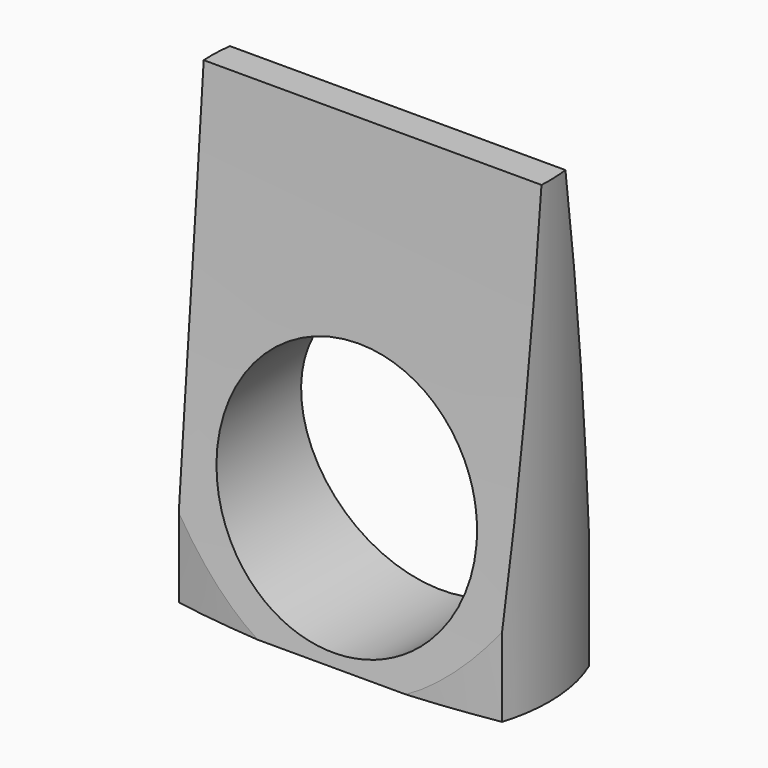
from build123d import *

# Parameters (mm, degrees)
F2_DEPTH      = 9.7
F2_DEPTH_BACK = 21.7
F0_R          = 8.875
F3_DEPTH      = 25
F3_DEPTH_BACK = 25
F5_DEPTH      = 25
F5_DEPTH_BACK = 25


with BuildPart() as f2:
    # F1 (on Top) → F2 (new body, two sides)
    with BuildSketch(Plane.XY) as f2_sk:
        with BuildLine():
            ThreePointArc((11.0648144764, -3.4107860847), (11.4494203432, -1.7246318209), (11.5785828629, 0))
            ThreePointArc((11.5785828629, 0), (11.3390271612, 2.3430843246), (10.6302726566, 4.5892139153))
            ThreePointArc((10.6302726566, 4.5892139153), (0, 5.2871789927), (-10.6302726566, 4.5892139153))
            ThreePointArc((-10.6302726566, 4.5892139153), (-11.5615397516, 0.6279965655), (-11.0648144764, -3.4107860847))
            ThreePointArc((-11.0648144764, -3.4107860847), (0, -4.3353080989), (11.0648144764, -3.4107860847))
        make_face()
    extrude(amount=-F2_DEPTH)
    extrude(f2_sk.sketch, amount=F2_DEPTH_BACK)

    # F0 (on Front) → F3 (cut, two sides)
    with BuildSketch(Plane.XZ) as f3_sk:
        Circle(F0_R)
    extrude(amount=-F3_DEPTH, mode=Mode.SUBTRACT)
    extrude(f3_sk.sketch, amount=F3_DEPTH_BACK, mode=Mode.SUBTRACT)

    # F4 (on Right) → F5 (cut, two sides)
    with BuildSketch(Plane.YZ) as f5_sk:
        with BuildLine():
            ThreePointArc((0, 30.6800138205), (3.7581649162, 5.252439566), (6.1427378096, -20.3405115753))
            ThreePointArc((6.1427378096, -20.3405115753), (0.1999286469, 33.1697739229), (-5.7428805158, -20.3405115753))
            ThreePointArc((-5.7428805158, -20.3405115753), (-2.2708328186, 5.1021466294), (0, 30.6800138205))
        make_face()
    extrude(amount=-F5_DEPTH, mode=Mode.SUBTRACT)
    extrude(f5_sk.sketch, amount=F5_DEPTH_BACK, mode=Mode.SUBTRACT)


solid = f2.part
